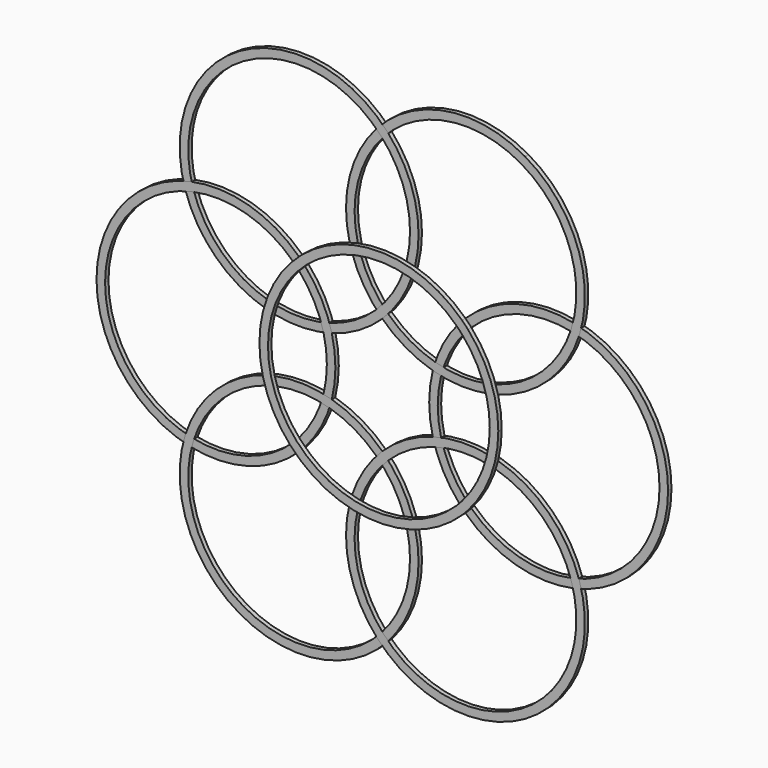
from build123d import *

# Parameters (mm, degrees)
F1_DEPTH = 1
F2_DEPTH = 1
F4_COUNT = 6


with BuildPart() as f1:
    # F0 (on Front) → F1 (new body)
    with BuildSketch(Plane.XZ):
        with BuildLine():
            ThreePointArc((19.4475760992, -17.1511499872), (12.9650507328, 0), (19.4475760992, 17.1511499872))
            ThreePointArc((19.4475760992, 17.1511499872), (18.7692597463, 17.8909208985), (18.062822476, 18.6038868578))
            ThreePointArc((18.062822476, 18.6038868578), (10.9650507328, 0), (18.062822476, -18.6038868578))
            ThreePointArc((18.062822476, -18.6038868578), (18.7692597463, -17.8909208985), (19.4475760992, -17.1511499872))
        make_face()
        with BuildLine():
            ThreePointArc((18.062822476, 18.6038868578), (18.7692597463, 17.8909208985), (19.4475760992, 17.1511499872))
            ThreePointArc((19.4475760992, 17.1511499872), (20.1258924522, 17.8909208985), (20.8323297224, 18.6038868578))
            ThreePointArc((20.8323297224, 18.6038868578), (20.1528744775, 19.3378441967), (19.4475760992, 20.0470035603))
            ThreePointArc((19.4475760992, 20.0470035603), (18.742277721, 19.3378441967), (18.062822476, 18.6038868578))
        make_face()
        with BuildLine():
            ThreePointArc((19.4475760992, 20.0470035603), (20.1528744775, 19.3378441967), (20.8323297224, 18.6038868578))
            ThreePointArc((20.8323297224, 18.6038868578), (48.9946408602, 23.882430588), (64.8252536641, 0))
            ThreePointArc((64.8252536641, 0), (48.9946408602, -23.882430588), (20.8323297224, -18.6038868578))
            ThreePointArc((20.8323297224, -18.6038868578), (20.1528744775, -19.3378441967), (19.4475760992, -20.0470035603))
            ThreePointArc((19.4475760992, -20.0470035603), (49.7790346438, -25.7222019041), (66.8252536641, 0))
            ThreePointArc((66.8252536641, 0), (49.7790346438, 25.7222019041), (19.4475760992, 20.0470035603))
        make_face()
        with BuildLine():
            ThreePointArc((20.8323297224, -18.6038868578), (20.1258924522, -17.8909208985), (19.4475760992, -17.1511499872))
            ThreePointArc((19.4475760992, -17.1511499872), (18.7692597463, -17.8909208985), (18.062822476, -18.6038868578))
            ThreePointArc((18.062822476, -18.6038868578), (18.742277721, -19.3378441967), (19.4475760992, -20.0470035603))
            ThreePointArc((19.4475760992, -20.0470035603), (20.1528744775, -19.3378441967), (20.8323297224, -18.6038868578))
        make_face()
    extrude(amount=-F1_DEPTH)


with BuildPart() as f2:
    # F0 (on Front) → F2 (new body)
    with BuildSketch(Plane.XZ):
        with BuildLine():
            ThreePointArc((18.062822476, -18.6038868578), (-25.9301014656, 0), (18.062822476, 18.6038868578))
            ThreePointArc((18.062822476, 18.6038868578), (18.742277721, 19.3378441967), (19.4475760992, 20.0470035603))
            ThreePointArc((19.4475760992, 20.0470035603), (-27.9301014656, 0), (19.4475760992, -20.0470035603))
            ThreePointArc((19.4475760992, -20.0470035603), (18.742277721, -19.3378441967), (18.062822476, -18.6038868578))
        make_face()
        with BuildLine():
            ThreePointArc((18.062822476, 18.6038868578), (18.7692597463, 17.8909208985), (19.4475760992, 17.1511499872))
            ThreePointArc((19.4475760992, 17.1511499872), (20.1258924522, 17.8909208985), (20.8323297224, 18.6038868578))
            ThreePointArc((20.8323297224, 18.6038868578), (20.1528744775, 19.3378441967), (19.4475760992, 20.0470035603))
            ThreePointArc((19.4475760992, 20.0470035603), (18.742277721, 19.3378441967), (18.062822476, 18.6038868578))
        make_face()
        with BuildLine():
            ThreePointArc((20.8323297224, -18.6038868578), (20.1258924522, -17.8909208985), (19.4475760992, -17.1511499872))
            ThreePointArc((19.4475760992, -17.1511499872), (18.7692597463, -17.8909208985), (18.062822476, -18.6038868578))
            ThreePointArc((18.062822476, -18.6038868578), (18.742277721, -19.3378441967), (19.4475760992, -20.0470035603))
            ThreePointArc((19.4475760992, -20.0470035603), (20.1528744775, -19.3378441967), (20.8323297224, -18.6038868578))
        make_face()
        with BuildLine():
            ThreePointArc((19.4475760992, 17.1511499872), (24.2553889222, 9.1676752916), (25.9301014656, 0))
            ThreePointArc((25.9301014656, 0), (24.2553889222, -9.1676752916), (19.4475760992, -17.1511499872))
            ThreePointArc((19.4475760992, -17.1511499872), (20.1258924522, -17.8909208985), (20.8323297224, -18.6038868578))
            ThreePointArc((20.8323297224, -18.6038868578), (26.0953985483, -9.9559400603), (27.9301014656, 0))
            ThreePointArc((27.9301014656, 0), (26.0953985483, 9.9559400603), (20.8323297224, 18.6038868578))
            ThreePointArc((20.8323297224, 18.6038868578), (20.1258924522, 17.8909208985), (19.4475760992, 17.1511499872))
        make_face()
    extrude(amount=F2_DEPTH)


with BuildPart() as f4_1:
    # F4: instance of F1
    add(f1.part.rotate(Axis((0, -4.7649228945, 0), (0, -1, 0)), 1 * 360 / F4_COUNT))


with BuildPart() as f4_2:
    # F4: instance of F1
    add(f1.part.rotate(Axis((0, -4.7649228945, 0), (0, -1, 0)), 2 * 360 / F4_COUNT))


with BuildPart() as f4_3:
    # F4: instance of F1
    add(f1.part.rotate(Axis((0, -4.7649228945, 0), (0, -1, 0)), 3 * 360 / F4_COUNT))


with BuildPart() as f4_4:
    # F4: instance of F1
    add(f1.part.rotate(Axis((0, -4.7649228945, 0), (0, -1, 0)), 4 * 360 / F4_COUNT))


with BuildPart() as f4_5:
    # F4: instance of F1
    add(f1.part.rotate(Axis((0, -4.7649228945, 0), (0, -1, 0)), 5 * 360 / F4_COUNT))


solid = Compound([f1.part, f2.part, f4_1.part, f4_2.part, f4_3.part, f4_4.part, f4_5.part])
